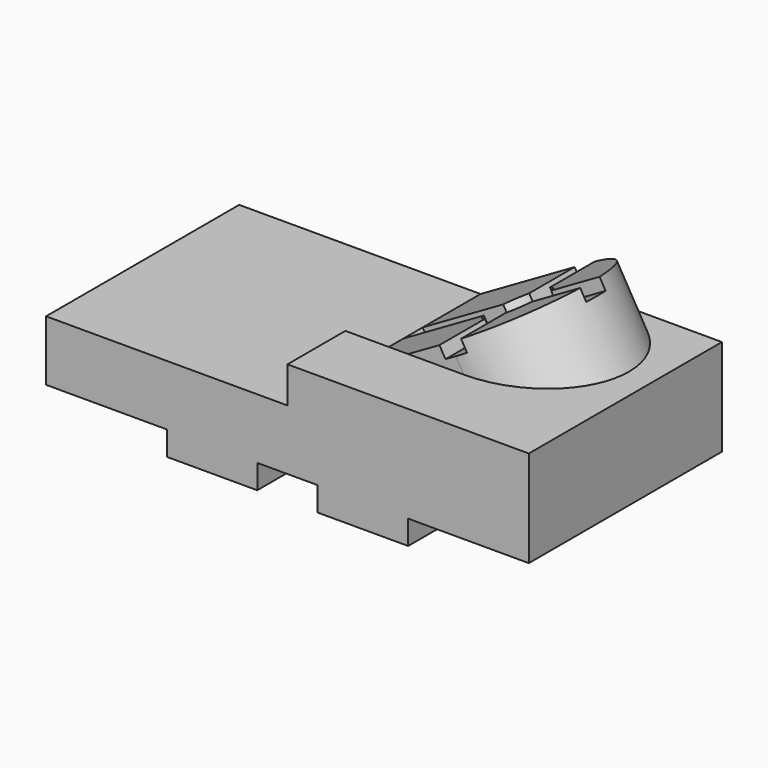
from build123d import *

# Parameters (mm, degrees)
F1_DEPTH  = 100
F5_DEPTH  = 40
F7_DEPTH  = 5
F8_R      = 7.5
F9_DEPTH  = 75.3118891325
F10_W     = 40
F10_H     = 30
F11_DEPTH = 15


with BuildPart() as f1:
    # F0 (on Front) → F1 (new body)
    with BuildSketch(Plane.XZ):
        Polygon((0, 25), (0, 0), (50, 0), (50, -10), (87.5, -10), (87.5, 0), (112.5, 0), (112.5, -10), (150, -10), (150, 0), (200, 0), (200, 40), (140, 40), (140, 25), align=None)
    extrude(amount=-F1_DEPTH)

    # F4 (on line) → F5 (join)
    with BuildSketch(Plane(origin=(14.1746824527, 0, -24.5512701892), x_dir=(0.8660254038, 0, 0.5), z_dir=(0.5, 0, -0.8660254038))):
        with BuildLine():
            Line((99.1025403784, -30), (99.1025403784, -100))
            Line((99.1025403784, -100), (149.1025403784, -100))
            ThreePointArc((149.1025403784, -100), (184.1025403784, -65), (149.1025403784, -30))
            Line((149.1025403784, -30), (99.1025403784, -30))
        make_face()
    extrude(amount=F5_DEPTH)

    # F6 (on face) → F7 (cut)
    with BuildSketch(Plane(origin=(14.1746824527, 0, -24.5512701892), x_dir=(0.8660254038, 0, 0.5), z_dir=(-0.5, 0, 0.8660254038))):
        with BuildLine():
            Line((154.1025403784, 100), (144.1025403784, 100))
            Line((144.1025403784, 100), (144.1025403784, 76.4564392374))
            ThreePointArc((144.1025403784, 76.4564392374), (140.2637056136, 73.8388347648), (137.6461011411, 70))
            Line((137.6461011411, 70), (99.1025403784, 70))
            Line((99.1025403784, 70), (99.1025403784, 59.9999986589))
            Line((99.1025403784, 59.9999986589), (137.6461017264, 59.9999986589))
            ThreePointArc((137.6461017264, 59.9999986589), (140.263706131, 56.1611647178), (144.1025403784, 53.5435607626))
            Line((144.1025403784, 53.5435607626), (144.1025403784, 30))
            Line((144.1025403784, 30), (154.1025403784, 30))
            Line((154.1025403784, 30), (154.1025403784, 53.5435607626))
            ThreePointArc((154.1025403784, 53.5435607626), (157.9413746259, 56.1611647178), (160.5589790305, 59.9999986589))
            Line((160.5589790305, 59.9999986589), (184.1025403784, 59.9999986589))
            Line((184.1025403784, 59.9999986589), (184.1025403784, 70))
            Line((184.1025403784, 70), (160.5589796158, 70))
            ThreePointArc((160.5589796158, 70), (157.9413751433, 73.8388347648), (154.1025403784, 76.4564392374))
            Line((154.1025403784, 76.4564392374), (154.1025403784, 100))
        make_face()
    extrude(amount=-F7_DEPTH, mode=Mode.SUBTRACT)

    # F8 (on face) → F9 (cut, through all)
    with BuildSketch(Plane(origin=(16.6746824527, 0, -28.8813972081), x_dir=(0.8660254038, 0, 0.5), z_dir=(-0.5, 0, 0.8660254038))):
        with Locations((149.1025403784, 65)):
            Circle(F8_R)
    extrude(amount=-F9_DEPTH, mode=Mode.SUBTRACT)

    # F10 (on face) → F11 (join, through all)
    with BuildSketch(Plane.XY.offset(25)):
        with Locations((120, 15)):
            Rectangle(F10_W, F10_H)
    extrude(amount=F11_DEPTH)


solid = f1.part
